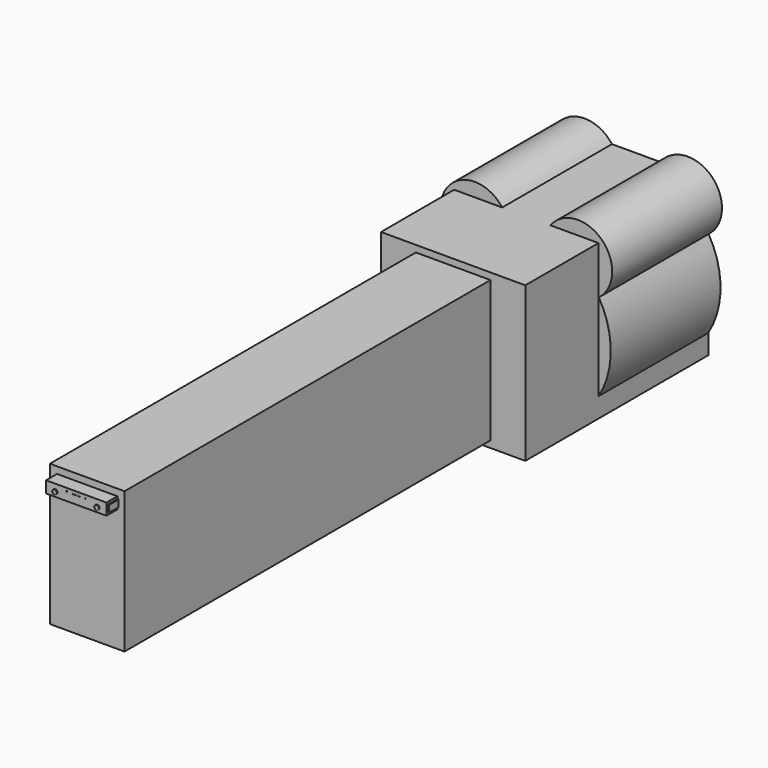
from build123d import *

# Parameters (mm, degrees)
F0_W      = 41.4315387607
F0_H      = 78.3974006772
F1_DEPTH  = 254
F2_W      = 80.1340416074
F2_H      = 85.8401879668
F3_DEPTH  = 127
F4_W      = 33.4925614297
F4_H      = 6.4504221082
F5_DEPTH  = 7.62
F6_W      = 4.0796049871
F6_H      = 0.7493942976
F6_W_2    = 0.7494016
F7_DEPTH  = 0.1016
F8_R      = 1.27
F9_DEPTH  = 0.508
F10_W     = 0.762
F10_H     = 3.81
F11_DEPTH = 6.604
F13_DEPTH = 76.2


with BuildPart() as f1:
    # F0 (on Front) → F1 (new body)
    with BuildSketch(Plane.XZ):
        Rectangle(F0_W, F0_H)
    extrude(amount=F1_DEPTH)

    # F2 (on Front) → F3 (join)
    with BuildSketch(Plane.XZ):
        Rectangle(F2_W, F2_H)
    extrude(amount=-F3_DEPTH)

    # F4 (on face) → F5 (join)
    with BuildSketch(Plane.XZ.offset(254)):
        with Locations((0, 32.2520956397)):
            Rectangle(F4_W, F4_H)
    extrude(amount=F5_DEPTH)

    # F6 (on face) → F7 (cut)
    with BuildSketch(Plane.XZ.offset(261.62)):
        with Locations((0, 33.832609545)):
            Rectangle(F6_W, F6_H)
        with Locations((4.9545032935, 33.832609545)):
            Rectangle(F6_W_2, F6_H)
        with Locations((-4.9545032935, 33.832609545)):
            Rectangle(F6_W_2, F6_H)
    extrude(amount=-F7_DEPTH, mode=Mode.SUBTRACT)

    # F8 (on face) → F9 (join)
    with BuildSketch(Plane.XZ.offset(261.62)):
        with Locations((-11.6662807149, 31.5668845856)):
            Circle(F8_R)
        with Locations((11.6662807149, 31.5668845856)):
            Circle(F8_R)
    extrude(amount=F9_DEPTH)

    # F10 (on face) → F11 (join)
    with BuildSketch(Plane.XZ.offset(254)):
        with Locations((-17.1272807149, 32.3023066938)):
            Rectangle(F10_W, F10_H)
        with Locations((17.1272807149, 32.3023066938)):
            Rectangle(F10_W, F10_H)
    extrude(amount=F11_DEPTH)

    # F12 (on face) → F13 (join)
    with BuildSketch(Plane(origin=(0, 127, 0), x_dir=(-1, 0, 0), z_dir=(0, 1, 0))):
        with BuildLine():
            ThreePointArc((-40.2683013835, 16.40315221), (-20.2308740956, 14.3950889374), (-9.5870208037, 31.4900939834))
            ThreePointArc((-9.5870208037, 31.4900939834), (-9.8780164285, 34.807058688), (-10.7421131765, 38.0226877267))
            ThreePointArc((-10.7421131765, 38.0226877267), (-27.7013840338, 30.2122780312), (-40.2683013835, 16.40315221))
        make_face()
        with BuildLine():
            ThreePointArc((-10.7421131765, 38.0226877267), (-9.8780164285, 34.807058688), (-9.5870208037, 31.4900939834))
            ThreePointArc((-9.5870208037, 31.4900939834), (-20.2308740956, 14.3950889374), (-40.2683013835, 16.40315221))
            ThreePointArc((-40.2683013835, 16.40315221), (-12.4594875766, -52.8240828659), (46.8897423582, -7.62))
            ThreePointArc((46.8897423582, -7.62), (45.2040828659, 4.8394875766), (40.2683013835, 16.40315221))
            ThreePointArc((40.2683013835, 16.40315221), (17.3827178516, 16.1198901766), (10.7421131765, 38.0226877267))
            ThreePointArc((10.7421131765, 38.0226877267), (0, 39.2697423582), (-10.7421131765, 38.0226877267))
        make_face()
        with BuildLine():
            ThreePointArc((-40.2683013835, 16.40315221), (-27.7013840338, 30.2122780312), (-10.7421131765, 38.0226877267))
            ThreePointArc((-10.7421131765, 38.0226877267), (-39.8913237558, 46.8602977902), (-40.2683013835, 16.40315221))
        make_face()
        with BuildLine():
            ThreePointArc((40.2683013835, 16.40315221), (27.7013840338, 30.2122780312), (10.7421131765, 38.0226877267))
            ThreePointArc((10.7421131765, 38.0226877267), (17.3827178516, 16.1198901766), (40.2683013835, 16.40315221))
        make_face()
        with BuildLine():
            ThreePointArc((47.6870208037, 31.4900939834), (31.9539855082, 50.2490983586), (10.7421131765, 38.0226877267))
            ThreePointArc((10.7421131765, 38.0226877267), (27.7013840338, 30.2122780312), (40.2683013835, 16.40315221))
            ThreePointArc((40.2683013835, 16.40315221), (45.7320258497, 23.0839472754), (47.6870208037, 31.4900939834))
        make_face()
    extrude(amount=-F13_DEPTH)


solid = f1.part
